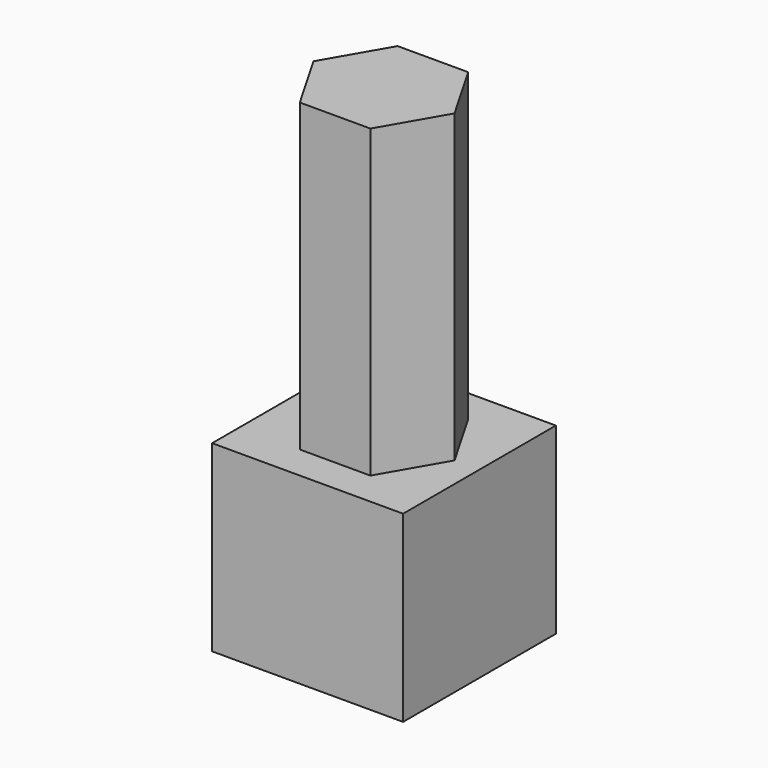
from build123d import *

# Parameters (mm, degrees)
SKETCH_W     = 12.5
SKETCH_H     = 12.5
PAD_DEPTH    = 12
PAD001_DEPTH = 20


with BuildPart() as part:
    # Sketch → Pad (new body)
    with BuildSketch(Plane.XY):
        Rectangle(SKETCH_W, SKETCH_H)
    extrude(amount=PAD_DEPTH)

    # Sketch001 (on Face6 of Pad) → Pad001 (join)
    with BuildSketch(Plane.XY.offset(12)):
        Polygon((-2.309401, 4), (-4.618802, 0), (-2.309401, -4), (2.309401, -4), (4.618802, 0), (2.309401, 4), align=None)
    extrude(amount=PAD001_DEPTH)


solid = part.part
